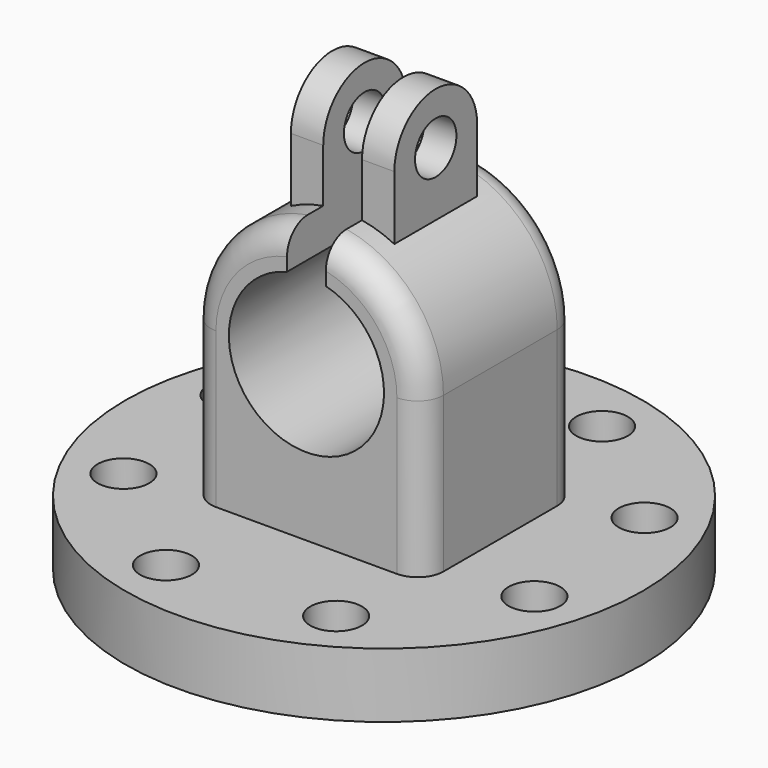
from build123d import *

# Parameters (mm, degrees)
SKETCH_R           = 20
PAD_DEPTH          = 5
PAD001_DEPTH       = 7.5
PAD002_DEPTH       = 4
SKETCH003_R        = 2
POCKET_DEPTH       = 24.001
POCKET001_DEPTH    = 27.501
SKETCH005_R        = 2
POCKET002_DEPTH    = 137.008872
POLARPATTERN_COUNT = 8
FILLET_R           = 2


with BuildPart() as part:
    # Sketch → Pad (new body)
    with BuildSketch(Plane.XY):
        Circle(SKETCH_R)
    extrude(amount=PAD_DEPTH)

    # Sketch001 → Pad001 (join, symmetric)
    with BuildSketch(Plane.XZ):
        with BuildLine():
            Line((9, 17), (9, -0.003877))
            Line((9, -0.003877), (-9, -0.003877))
            Line((-9, -0.003877), (-9, 17))
            ThreePointArc((9, 17), (0, 26), (-9, 17))
        make_face()
    extrude(amount=PAD001_DEPTH, both=True)

    # Sketch002 → Pad002 (join, symmetric)
    with BuildSketch(Plane.YZ):
        with BuildLine():
            Line((-4, 13.8), (-4, 30))
            ThreePointArc((4, 30), (0, 34), (-4, 30))
            Line((4, 30), (4, 13.8))
            Line((4, 13.8), (-4, 13.8))
        make_face()
    extrude(amount=PAD002_DEPTH, both=True)

    # Sketch003 (on Face16 of Pad002) → Pocket (cut, through all)
    with BuildSketch(Plane.YZ.offset(4)):
        with Locations((0, 30)):
            Circle(SKETCH003_R)
    extrude(amount=-POCKET_DEPTH, mode=Mode.SUBTRACT)

    # Sketch004 (on Face11 of Pocket) → Pocket001 (cut, through all)
    with BuildSketch(Plane.XZ.offset(7.5)):
        with BuildLine():
            ThreePointArc((-1.5, 22.809475), (0, 11), (1.5, 22.809475))
            Line((1.5, 39.24), (1.5, 22.809475))
            Line((-1.5, 39.24), (1.5, 39.24))
            Line((-1.5, 22.809475), (-1.5, 39.24))
        make_face()
    extrude(amount=-POCKET001_DEPTH, mode=Mode.SUBTRACT)

    # Sketch005 (on Face3 of Pocket001) → Pocket002 (cut, through all)
    with BuildSketch(Plane.XY.offset(5)):
        with Locations((4.609226, 15.321718)):
            Circle(SKETCH005_R)
    pocket002 = extrude(amount=-POCKET002_DEPTH, mode=Mode.SUBTRACT)

    # PolarPattern: Pocket002 ×8 about axis
    polarpattern_axis = Axis((0, 0, 5), (0, 0, 1))
    for i in range(1, POLARPATTERN_COUNT):
        add(pocket002.rotate(polarpattern_axis, i * 360 / POLARPATTERN_COUNT), mode=Mode.SUBTRACT)

    # Fillet
    fillet_edges = [part.edges().sort_by_distance(p)[0] for p in [
        (6.873864, -7.5, 22.809475),
        (-6.873864, -7.5, 22.809475),
        (6.873864, 7.5, 22.809475),
        (-6.873864, 7.5, 22.809475),
    ]]
    fillet(fillet_edges, radius=FILLET_R)


solid = part.part
